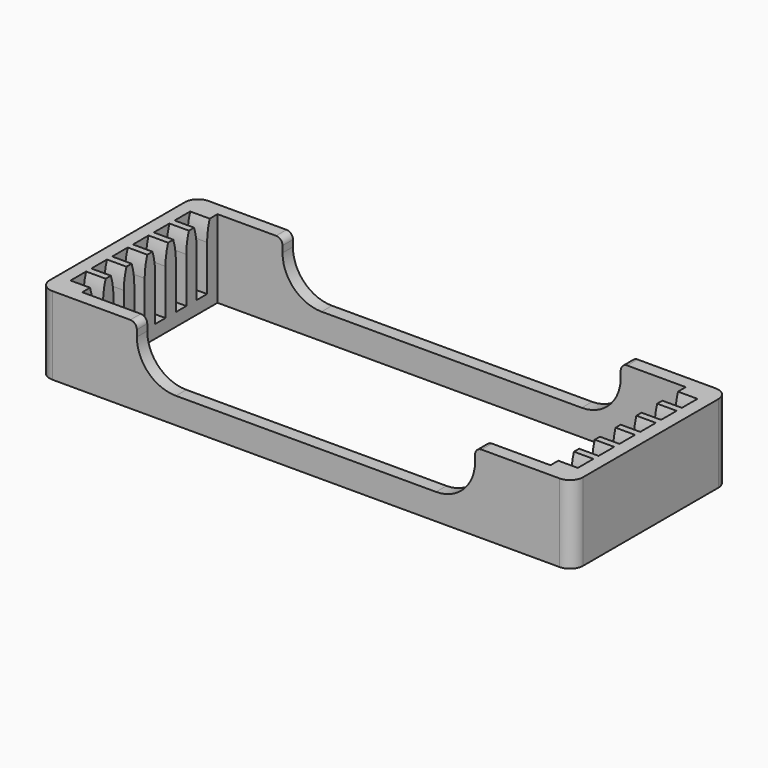
from build123d import *

# Parameters (mm, degrees)
BOX001_W      = 72
BOX001_H      = 26
BOX001_DEPTH  = 12
BOX002_W      = 52
BOX002_H      = 34
BOX002_DEPTH  = 8
FILLET001_R   = 6
PAD_DEPTH     = 78
ARRAY_Y_COUNT = 6
ARRAY_Y_PITCH = 4
BOX_W         = 82
BOX_H         = 30
BOX_DEPTH     = 12
FILLET_R      = 2
FILLET002_R   = 1


with BuildPart() as slide_internal_cube:
    # Box001 → Box001 (new body)
    with BuildSketch(Plane(origin=(3, -3, 0), x_dir=(1, 0, 0), z_dir=(0, 0, 1))):
        with Locations((36, 13)):
            Rectangle(BOX001_W, BOX001_H)
    extrude(amount=BOX001_DEPTH)


with BuildPart() as middle_extract_cube_fillet:
    # Box002 → Box002 (new body)
    with BuildSketch(Plane(origin=(13, -7, 4), x_dir=(1, 0, 0), z_dir=(0, 0, 1))):
        with Locations((26, 17)):
            Rectangle(BOX002_W, BOX002_H)
    extrude(amount=BOX002_DEPTH)

    # Fillet001
    fillet001_edges = [middle_extract_cube_fillet.edges().sort_by_distance(p)[0] for p in [
        (13, 10, 4),
        (65, 10, 4),
    ]]
    fillet(fillet001_edges, radius=FILLET001_R)


with BuildPart() as extract_fusion:
    # Sketch → Pad (new body)
    with BuildSketch(Plane.YZ):
        with BuildLine():
            Line((-1, 9), (-1, 2))
            Line((-1, 2), (1, 2))
            Line((1, 2), (1, 9))
            ThreePointArc((1.5, 12), (1.125856, 10.520691), (1, 9))
            Line((-1.5, 12), (1.5, 12))
            ThreePointArc((-1, 9), (-1.125856, 10.520691), (-1.5, 12))
        make_face()
    extrude(amount=PAD_DEPTH)

    # Array Y: extract fusion ×6


with BuildPart() as extract_fusion_1:
    add(extract_fusion.part)
    with Locations(*[(0, i * ARRAY_Y_PITCH, 0) for i in range(1, ARRAY_Y_COUNT)]):
        add(extract_fusion.part)

    # Fusion: union slide internal cube, middle extract cube fillet
    add(slide_internal_cube.part)
    add(middle_extract_cube_fillet.part)


with BuildPart() as slide_box_fillet:
    # Box → Box (new body)
    with BuildSketch(Plane(origin=(-2, -5, 0), x_dir=(1, 0, 0), z_dir=(0, 0, 1))):
        with Locations((41, 15)):
            Rectangle(BOX_W, BOX_H)
    extrude(amount=BOX_DEPTH)

    # Fillet
    fillet_edges = [slide_box_fillet.edges().sort_by_distance(p)[0] for p in [
        (-2, -5, 6),
        (-2, 25, 6),
        (80, -5, 6),
        (80, 25, 6),
    ]]
    fillet(fillet_edges, radius=FILLET_R)

    # Cut: cut extract fusion
    add(extract_fusion_1.part, mode=Mode.SUBTRACT)

    # Fillet002
    fillet002_edges = [slide_box_fillet.edges().sort_by_distance(p)[0] for p in [
        (13, 24, 12),
        (13, -4, 12),
        (65, -4, 12),
        (65, 24, 12),
    ]]
    fillet(fillet002_edges, radius=FILLET002_R)


solid = slide_box_fillet.part
